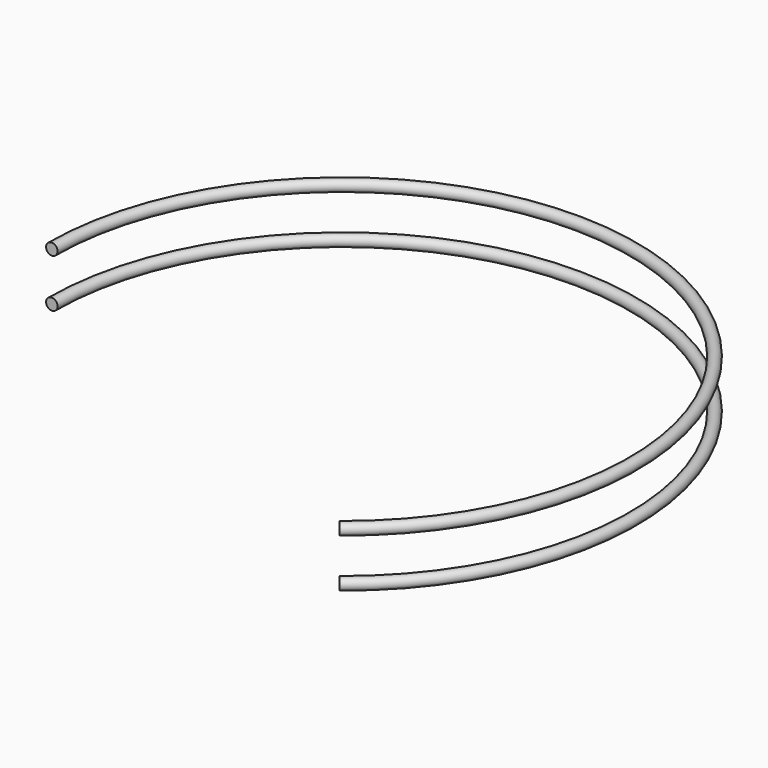
from build123d import *

# Parameters (mm, degrees)
F4_R = 6.0325
F5_R = 6.0325


with BuildPart() as f6:
    # F6: sweep along a path in F2
    with BuildLine(Plane.XY.offset(50.8)) as f6_path:
        ThreePointArc((188.5786577497, -239.4600798491), (133.0983764058, 274.2040521184), (-304.7999989389, 0.0254334073))
    # F4 (on line) → F6 (sweep)
    with BuildSketch(Plane(origin=(0, 0, 0), x_dir=(-0.6186963837, 0.7856301832, 0), z_dir=(0.7856301832, 0.6186963837, 0))):
        with Locations((-304.794639349, 50.8096404374)):
            Circle(F4_R)
    sweep(path=f6_path.line)


with BuildPart() as f7:
    # F7: sweep along a path in F0
    with BuildLine(Plane.XY) as f7_path:
        ThreePointArc((188.5786577497, -239.4600798491), (133.0983764058, 274.2040521184), (-304.7999989389, 0.0254334073))
    # F5 (on line) → F7 (sweep)
    with BuildSketch(Plane(origin=(0, 0, 0), x_dir=(-0.6186963837, 0.7856301832, 0), z_dir=(0.7856301832, 0.6186963837, 0))):
        with Locations((-304.7781288624, 0)):
            Circle(F5_R)
    sweep(path=f7_path.line)


solid = Compound([f6.part, f7.part])
